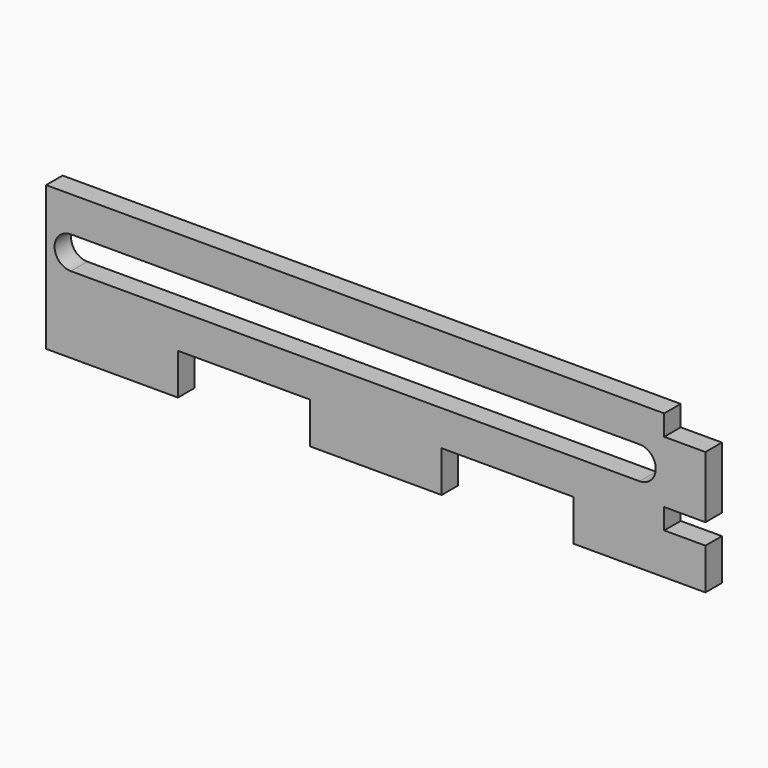
from build123d import *

# Parameters (mm, degrees)
F1_DEPTH = 3.175


with BuildPart() as f1:
    # F0 (on Front) → F1 (new body)
    with BuildSketch(Plane.XZ):
        Polygon((-46.161194, -31.576624), (-25.841194, -31.576624), (-25.841194, -25.226624), (-32.191194, -25.226624), (-32.191194, -22.051624), (-25.841194, -22.051624), (-25.841194, -12.526624), (-32.191194, -12.526624), (-32.191194, -9.351624), (-127.441194, -9.351624), (-127.441194, -31.576624), (-107.121194, -31.576624), (-107.121194, -25.226624), (-86.801194, -25.226624), (-86.801194, -31.576624), (-66.481194, -31.576624), (-66.481194, -25.226624), (-46.161194, -25.226624), align=None)
        with BuildLine():
            ThreePointArc((-123.631194, -19.789124), (-126.131194, -17.289124), (-123.631194, -14.789124))
            Line((-123.631194, -14.789124), (-36.001194, -14.789124))
            ThreePointArc((-36.001194, -14.789124), (-33.501194, -17.289124), (-36.001194, -19.789124))
            Line((-36.001194, -19.789124), (-123.631194, -19.789124))
        make_face(mode=Mode.SUBTRACT)
    extrude(amount=F1_DEPTH)


solid = f1.part
